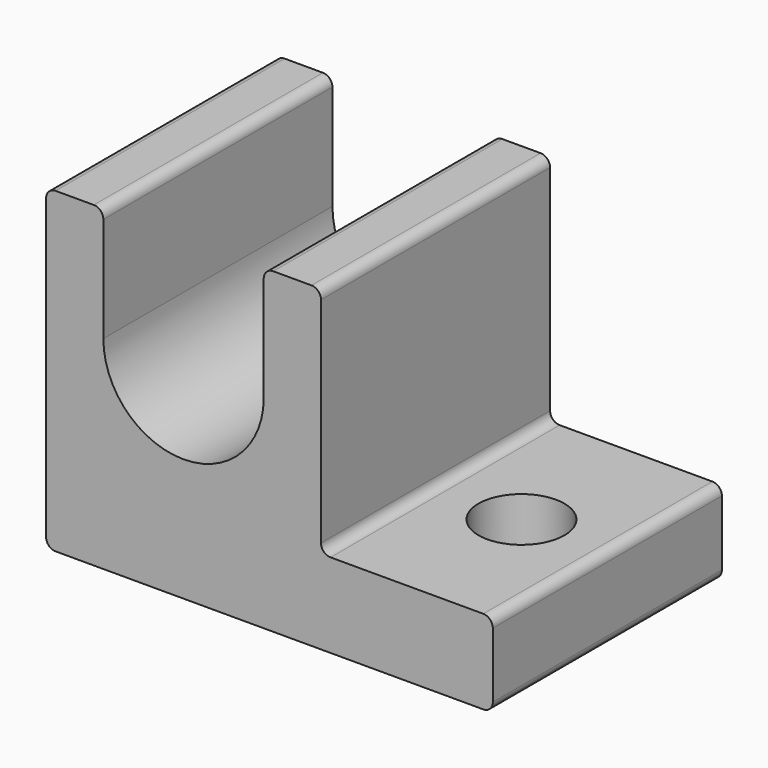
from build123d import *

# Parameters (mm, degrees)
F1_DEPTH = 15
F2_W     = 3
F2_H     = 15
F3_DEPTH = 6
F4_R     = 2.25
F5_DEPTH = 25
F6_R     = 0.5
F7_R     = 0.5


with BuildPart() as f1:
    # F0 (on Front) → F1 (new body)
    with BuildSketch(Plane.XZ):
        with BuildLine():
            ThreePointArc((4.2, 0), (0, -4.2), (-4.2, 0))
            Line((-4.2, 0), (-7.2, 0))
            Line((-7.2, 0), (-7.2, -10.624883))
            Line((-7.2, -10.624883), (16.2, -10.624883))
            Line((16.2, -10.624883), (16.2, -6.216642))
            Line((16.2, -6.216642), (7.2, -6.216642))
            Line((7.2, -6.216642), (7.2, 0))
            Line((7.2, 0), (4.2, 0))
        make_face()
    extrude(amount=F1_DEPTH)

    # F2 (on face) → F3 (join)
    with BuildSketch(Plane.XY):
        with Locations((-5.7, -7.5)):
            Rectangle(F2_W, F2_H)
        with Locations((5.7, -7.5)):
            Rectangle(F2_W, F2_H)
    extrude(amount=F3_DEPTH)

    # F4 (on face) → F5 (cut)
    with BuildSketch(Plane.XY.offset(-6.216642)):
        with Locations((11.7, -7.5)):
            Circle(F4_R)
    extrude(amount=-F5_DEPTH, mode=Mode.SUBTRACT)

    # F6
    f6_edges = [f1.edges().sort_by_distance(p)[0] for p in [
        (-7.2, -7.5, -10.624883),
        (16.2, -7.5, -10.624883),
        (-7.2, -7.5, 6),
        (-4.2, -7.5, 6),
        (4.2, -7.5, 6),
        (7.2, -7.5, 6),
        (7.2, -7.5, -6.216642),
    ]]
    fillet(f6_edges, radius=F6_R)

    # F7
    f7_edges = [f1.edges().sort_by_distance(p)[0] for p in [
        (16.2, -7.5, -6.216642),
    ]]
    fillet(f7_edges, radius=F7_R)


solid = f1.part
